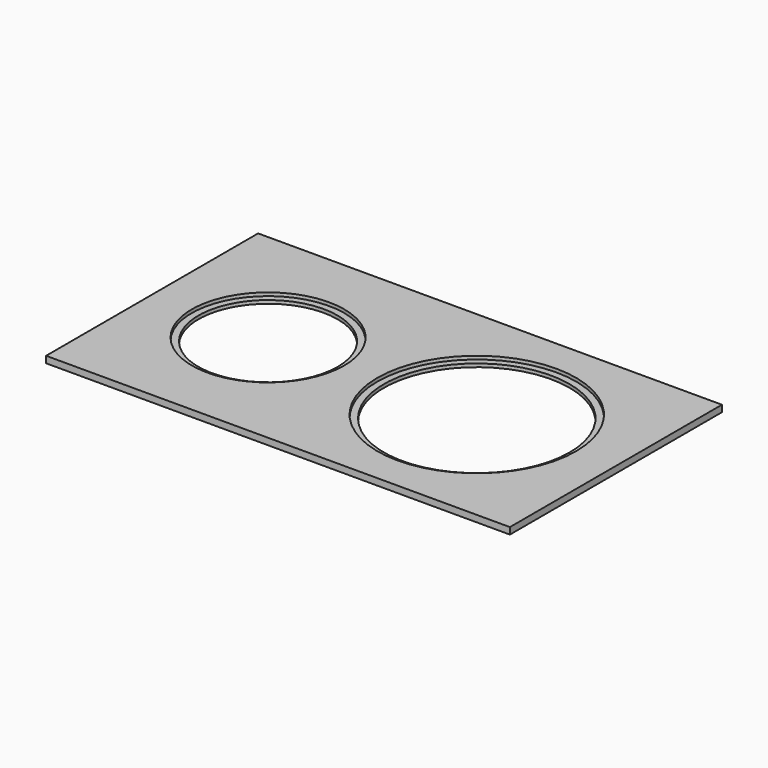
from build123d import *

# Parameters (mm, degrees)
F0_W     = 700
F0_H     = 400
F0_R     = 115
F0_R_2   = 150
F1_DEPTH = 10
F0_R_3   = 105
F0_R_4   = 140
F2_DEPTH = 5


with BuildPart() as f1:
    # F0 (on Top) → F1 (new body)
    with BuildSketch(Plane.XY):
        Rectangle(F0_W, F0_H)
        with Locations((-175, 0)):
            Circle(F0_R, mode=Mode.SUBTRACT)
        with Locations((140, 0)):
            Circle(F0_R_2, mode=Mode.SUBTRACT)
    extrude(amount=F1_DEPTH)

    # F0 (on Top) → F2 (join)
    with BuildSketch(Plane.XY):
        with Locations((-175, 0)):
            Circle(F0_R)
        with Locations((-175, 0)):
            Circle(F0_R_3, mode=Mode.SUBTRACT)
        with Locations((140, 0)):
            Circle(F0_R_2)
        with Locations((140, 0)):
            Circle(F0_R_4, mode=Mode.SUBTRACT)
    extrude(amount=F2_DEPTH)


solid = f1.part
